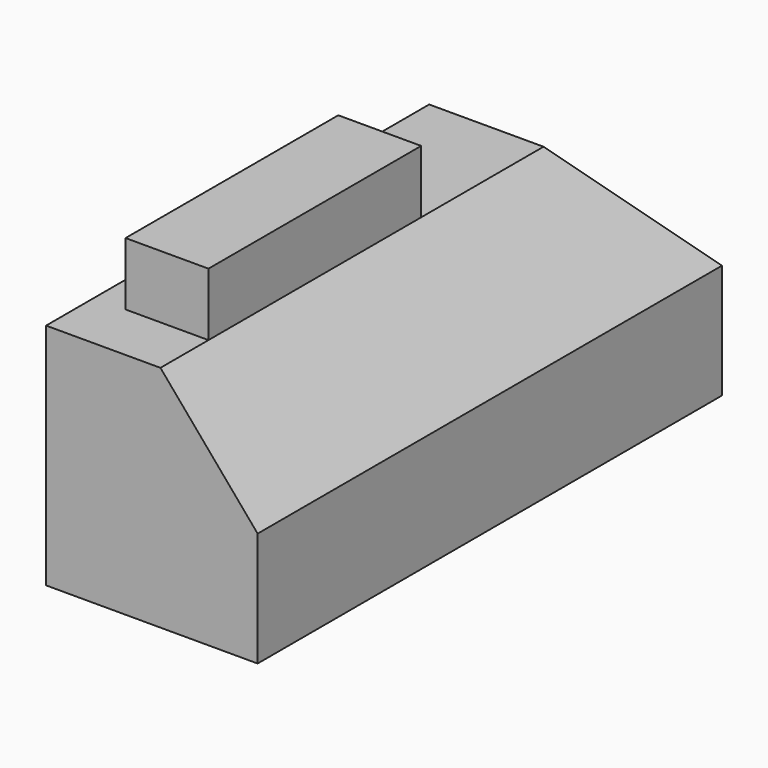
from build123d import *

# Parameters (mm, degrees)
F0_W      = 939.8
F0_H      = 1295.4
F1_DEPTH  = 2578.1
F2_W      = 139.7
F2_H      = 279.4
F3_DEPTH  = 2578.1
F4_W      = 431.8
F4_H      = 279.4
F5_DEPTH  = 2578.1
F7_DEPTH  = 2578.1
F9_DEPTH  = 939.801
F10_W     = 1130.3
F10_H     = 279.4
F11_DEPTH = 368.3
F12_W     = 266.7
F12_H     = 279.4
F13_DEPTH = 368.3
F14_W     = 933.45
F14_H     = 2571.75
F15_DEPTH = 508


with BuildPart() as f1:
    # F0 (on Front) → F1 (new body)
    with BuildSketch(Plane.XZ):
        with Locations((469.9, 647.7)):
            Rectangle(F0_W, F0_H)
    extrude(amount=F1_DEPTH)

    # F2 (on face) → F3 (cut, through all)
    with BuildSketch(Plane.XZ.offset(2578.1)):
        with Locations((69.85, 1155.7)):
            Rectangle(F2_W, F2_H)
    extrude(amount=-F3_DEPTH, mode=Mode.SUBTRACT)

    # F4 (on face) → F5 (cut, through all)
    with BuildSketch(Plane.XZ.offset(2578.1)):
        with Locations((723.9, 1155.7)):
            Rectangle(F4_W, F4_H)
    extrude(amount=-F5_DEPTH, mode=Mode.SUBTRACT)

    # F6 (on face) → F7 (cut, through all)
    with BuildSketch(Plane.XZ.offset(2578.1)):
        Polygon((939.8, 1016), (508, 1016), (939.8, 508), align=None)
    extrude(amount=-F7_DEPTH, mode=Mode.SUBTRACT)

    # F8 (on Right) → F9 (cut, through all)
    with BuildSketch(Plane.YZ):
        Polygon((-450.85, 1016), (0, 508), (0, 1016), align=None)
    extrude(amount=F9_DEPTH, mode=Mode.SUBTRACT)

    # F10 (on face) → F11 (cut, through all)
    with BuildSketch(Plane.YZ.offset(508)):
        with Locations((-565.1499999999, 1155.7)):
            Rectangle(F10_W, F10_H)
    extrude(amount=-F11_DEPTH, mode=Mode.SUBTRACT)

    # F12 (on face) → F13 (cut, through all)
    with BuildSketch(Plane.YZ.offset(508)):
        with Locations((-2444.75, 1155.7)):
            Rectangle(F12_W, F12_H)
    extrude(amount=-F13_DEPTH, mode=Mode.SUBTRACT)

    # F14 (on face) → F15 (cut)
    with BuildSketch(Plane(origin=(0, 0, 0), x_dir=(1, 0, 0), z_dir=(0, 0, -1))):
        with Locations((469.9, 1289.05)):
            Rectangle(F14_W, F14_H)
    extrude(amount=-F15_DEPTH, mode=Mode.SUBTRACT)


solid = f1.part
